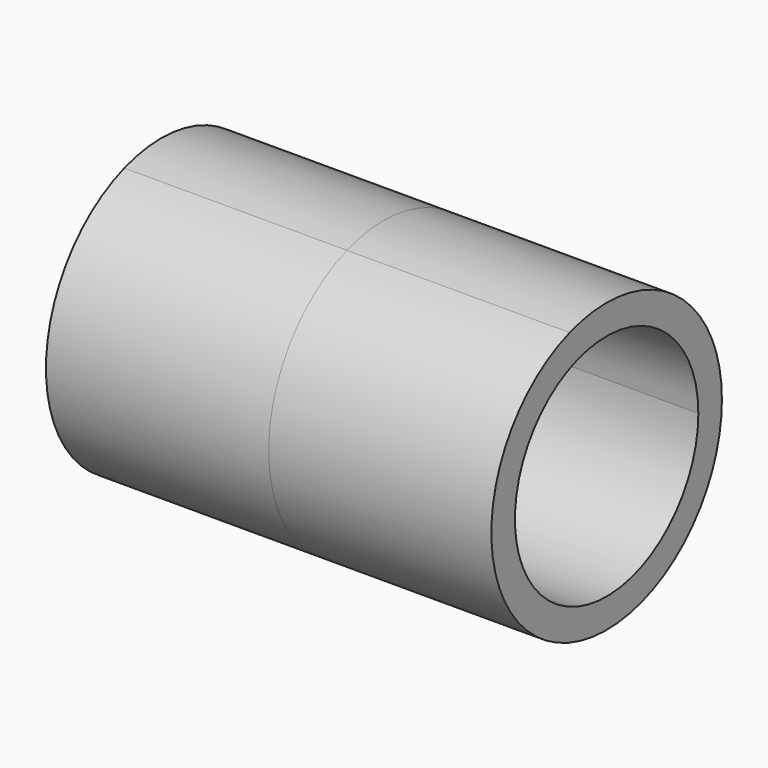
from build123d import *

# Parameters (mm, degrees)
F2_DEPTH      = 34
F2_DEPTH_BACK = 34


with BuildPart() as f2:
    # F1 (on Right) → F2 (new body, two sides)
    with BuildSketch(Plane.YZ) as f2_sk:
        with BuildLine():
            ThreePointArc((22, 0), (12.822310879, 17.8770339744), (-7.0534857929, 20.8386261104))
            ThreePointArc((-7.0534857929, 20.8386261104), (-18.3395596388, -12.1515658356), (16.4403176156, -14.6190272145))
            ThreePointArc((16.4403176156, -14.6190272145), (20.5631586526, -7.8202625422), (22, 0))
        make_face()
        with BuildLine():
            ThreePointArc((-5.6107273352, 16.5761798606), (10.1995654719, 14.2203679342), (17.5, 0))
            ThreePointArc((17.5, 0), (-10.1995654719, -14.2203679342), (-5.6107273352, 16.5761798606))
        make_face(mode=Mode.SUBTRACT)
    extrude(amount=F2_DEPTH)
    extrude(f2_sk.sketch, amount=-F2_DEPTH_BACK)


solid = f2.part
